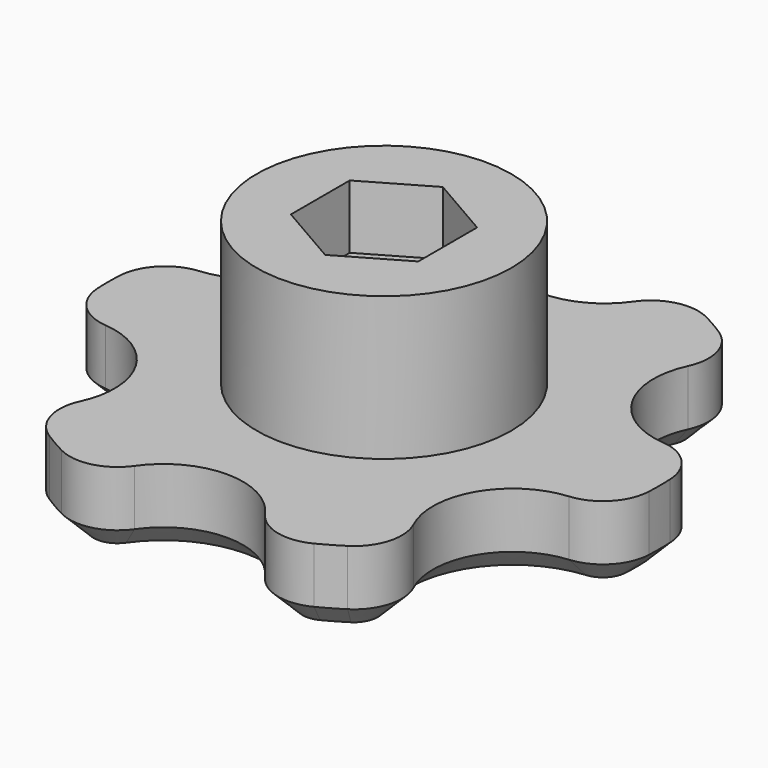
from build123d import *

# Parameters (mm, degrees)
SKETCH181_R     = 8
PAD047_DEPTH    = 4
SKETCH195_R     = 8
SKETCH195_R_2   = 2.7
PAD050_DEPTH    = 5
SKETCH182_R     = 2.7
PAD051_DEPTH    = 5
FILLET048_R     = 3
CHAMFER074_SIZE = 1.5


with BuildPart() as part:
    # Sketch181 → Pad047 (new body)
    with BuildSketch(Plane.XY):
        Circle(SKETCH181_R)
        Polygon((4, -2.3094010768), (4, 2.3094010768), (0, 4.6188021535), (-4, 2.3094010768), (-4, -2.3094010768), (0, -4.6188021535), align=None, mode=Mode.SUBTRACT)
    extrude(amount=-PAD047_DEPTH)

    # Sketch195 → Pad050 (join)
    with BuildSketch(Plane.XY.offset(-4)):
        Circle(SKETCH195_R)
        Circle(SKETCH195_R_2, mode=Mode.SUBTRACT)
    extrude(amount=-PAD050_DEPTH)

    # Sketch182 → Pad051 (join)
    with BuildSketch(Plane.XY.offset(-9)):
        with BuildLine():
            ThreePointArc((11.9011787319, 12.5841942449), (10.6698729811, 6.1602540378), (16.8488212681, 4.0146259944))
            ThreePointArc((16.8488212681, -4.0146259944), (17.3205080757, 0), (16.8488212681, 4.0146259944))
            ThreePointArc((16.8488212681, -4.0146259944), (10.6698729811, -6.1602540378), (11.9011787319, -12.5841942449))
            ThreePointArc((4.9476425363, -16.5988202392), (8.6602540378, -15), (11.9011787319, -12.5841942449))
            ThreePointArc((4.9476425363, -16.5988202392), (0, -12.3205080757), (-4.9476425363, -16.5988202392))
            ThreePointArc((-11.9011787319, -12.5841942449), (-8.6602540378, -15), (-4.9476425363, -16.5988202392))
            ThreePointArc((-11.9011787319, -12.5841942449), (-10.6698729811, -6.1602540378), (-16.8488212681, -4.0146259944))
            ThreePointArc((-16.8488212681, 4.0146259944), (-17.3205080757, 0), (-16.8488212681, -4.0146259944))
            ThreePointArc((-16.8488212681, 4.0146259944), (-10.6698729811, 6.1602540378), (-11.9011787319, 12.5841942449))
            ThreePointArc((-4.9476425363, 16.5988202392), (-8.6602540378, 15), (-11.9011787319, 12.5841942449))
            ThreePointArc((-4.9476425363, 16.5988202392), (0, 12.3205080757), (4.9476425363, 16.5988202392))
            ThreePointArc((11.9011787319, 12.5841942449), (8.6602540378, 15), (4.9476425363, 16.5988202392))
        make_face()
        Circle(SKETCH182_R, mode=Mode.SUBTRACT)
    extrude(amount=-PAD051_DEPTH)

    # Fillet048
    fillet048_edges = [part.edges().sort_by_distance(p)[0] for p in [
        (16.848821, -4.014626, -11.5),
        (16.848821, 4.014626, -11.5),
        (11.901179, -12.584194, -11.5),
        (4.947643, -16.59882, -11.5),
        (-4.947643, -16.59882, -11.5),
        (-16.848821, -4.014626, -11.5),
        (-4.947643, 16.59882, -11.5),
        (11.901179, 12.584194, -11.5),
        (-11.901179, -12.584194, -11.5),
        (-16.848821, 4.014626, -11.5),
        (-11.901179, 12.584194, -11.5),
        (4.947643, 16.59882, -11.5),
    ]]
    fillet(fillet048_edges, radius=FILLET048_R)

    # Chamfer074
    chamfer074_edges = [part.edges().sort_by_distance(p)[0] for p in [
        (10.669873, -6.160254, -14),
    ]]
    chamfer(chamfer074_edges, length=CHAMFER074_SIZE)


solid = part.part
